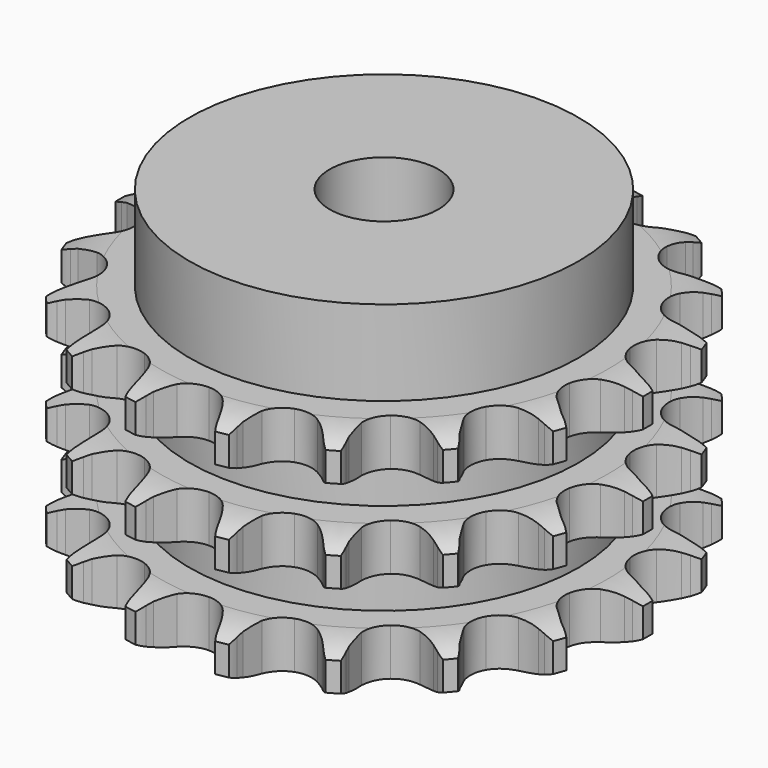
from build123d import *

# Parameters (mm, degrees)
PAD_DEPTH         = 25.6
SKETCH001_R       = 21.5
PAD001_DEPTH      = 35
SKETCH002_R       = 6
POCKET_DEPTH      = 0.001
POCKET_DEPTH_BACK = 35.001


with BuildPart() as part:
    # Sprocket → Pad (new body)
    with BuildSketch(Plane.XY):
        with BuildLine():
            ThreePointArc((-5.252647, 29.789243), (-4.498603, 28.950469), (-3.941242, 27.96992))
            Line((-3.941242, 27.96992), (-3.638207, 27.271135))
            ThreePointArc((-3.638207, 27.271135), (-3.145636, 26.311322), (-2.532859, 25.42342))
            ThreePointArc((-2.532859, 25.42342), (-1.407041, 24.519856), (0, 24.197169))
            ThreePointArc((0, 24.197169), (1.407041, 24.519856), (2.532859, 25.42342))
            ThreePointArc((2.532859, 25.42342), (3.145636, 26.311322), (3.638207, 27.271135))
            Line((3.638207, 27.271135), (3.941242, 27.96992))
            ThreePointArc((3.941242, 27.96992), (4.498603, 28.950469), (5.252647, 29.789243))
            ThreePointArc((5.252647, 29.789243), (5.67434, 28.743154), (5.86272, 27.631112))
            Line((5.86272, 27.631112), (5.908481, 26.870824))
            ThreePointArc((5.908481, 26.870824), (6.043072, 25.800426), (6.315213, 24.756488))
            ThreePointArc((6.315213, 24.756488), (7.064098, 23.522364), (8.275919, 22.737902))
            ThreePointArc((8.275919, 22.737902), (9.708471, 22.559891), (11.07543, 23.023911))
            Line((11.07543, 23.023911), (12.746073, 24.382144))
            ThreePointArc((12.746073, 24.382144), (13.001613, 24.664648), (13.269832, 24.935144))
            ThreePointArc((13.269832, 24.935144), (14.128947, 25.665929), (15.124395, 26.196221))
            ThreePointArc((15.124395, 26.196221), (15.162873, 25.068992), (14.959552, 23.959584))
            Line((14.959552, 23.959584), (14.742519, 23.229495))
            ThreePointArc((14.742519, 23.229495), (14.502895, 22.177618), (14.401577, 21.103559))
            ThreePointArc((14.401577, 21.103559), (14.683203, 19.687728), (15.553641, 18.536107))
            ThreePointArc((15.553641, 18.536107), (16.838916, 17.87887), (18.282141, 17.847379))
            Line((18.282141, 17.847379), (20.316575, 18.552307))
            ThreePointArc((20.316575, 18.552307), (20.653326, 18.730375), (20.997885, 18.892821))
            ThreePointArc((20.997885, 18.892821), (22.055132, 19.2857), (23.171918, 19.443547))
            ThreePointArc((23.171918, 19.443547), (22.82254, 18.371138), (22.252041, 17.398176))
            Line((22.252041, 17.398176), (21.798392, 16.786347))
            ThreePointArc((21.798392, 16.786347), (21.213455, 15.879861), (20.750898, 14.90523))
            ThreePointArc((20.750898, 14.90523), (20.531297, 13.478461), (20.955363, 12.098585))
            ThreePointArc((20.955363, 12.098585), (21.938339, 11.041394), (23.283756, 10.51819))
            Line((23.283756, 10.51819), (25.436599, 10.484788))
            ThreePointArc((25.436599, 10.484788), (25.813944, 10.536941), (26.193283, 10.571744))
            ThreePointArc((26.193283, 10.571744), (27.321143, 10.57933), (28.424565, 10.345696))
            ThreePointArc((28.424565, 10.345696), (27.729472, 9.457455), (26.860605, 8.738291))
            Line((26.860605, 8.738291), (26.225057, 8.318517))
            ThreePointArc((26.225057, 8.318517), (25.36536, 7.666759), (24.597354, 6.909109))
            ThreePointArc((24.597354, 6.909109), (23.903014, 5.643494), (23.82956, 4.201794))
            ThreePointArc((23.82956, 4.201794), (24.391674, 2.872163), (25.477007, 1.920352))
            Line((25.477007, 1.920352), (27.488593, 1.152649))
            ThreePointArc((27.488593, 1.152649), (27.861019, 1.072597), (28.229384, 0.97556))
            ThreePointArc((28.229384, 0.97556), (29.29182, 0.596938), (30.24879, 0))
            ThreePointArc((30.24879, 0), (29.29182, -0.596938), (28.229384, -0.97556))
            Line((28.229384, -0.97556), (27.488593, -1.152649))
            ThreePointArc((27.488593, -1.152649), (26.457828, -1.471067), (25.477007, -1.920352))
            ThreePointArc((25.477007, -1.920352), (24.391674, -2.872163), (23.82956, -4.201794))
            ThreePointArc((23.82956, -4.201794), (23.903014, -5.643494), (24.597354, -6.909109))
            Line((24.597354, -6.909109), (26.225057, -8.318517))
            ThreePointArc((26.225057, -8.318517), (26.547643, -8.521118), (26.860605, -8.738291))
            ThreePointArc((26.860605, -8.738291), (27.729472, -9.457455), (28.424565, -10.345696))
            ThreePointArc((28.424565, -10.345696), (27.321143, -10.57933), (26.193283, -10.571744))
            Line((26.193283, -10.571744), (25.436599, -10.484788))
            ThreePointArc((25.436599, -10.484788), (24.359091, -10.431461), (23.283756, -10.51819))
            ThreePointArc((23.283756, -10.51819), (21.938339, -11.041394), (20.955363, -12.098585))
            ThreePointArc((20.955363, -12.098585), (20.531297, -13.478461), (20.750898, -14.90523))
            Line((20.750898, -14.90523), (21.798392, -16.786347))
            ThreePointArc((21.798392, -16.786347), (22.032231, -17.08706), (22.252041, -17.398176))
            ThreePointArc((22.252041, -17.398176), (22.82254, -18.371138), (23.171918, -19.443547))
            ThreePointArc((23.171918, -19.443547), (22.055132, -19.2857), (20.997885, -18.892821))
            Line((20.997885, -18.892821), (20.316575, -18.552307))
            ThreePointArc((20.316575, -18.552307), (19.322288, -18.133666), (18.282141, -17.847379))
            ThreePointArc((18.282141, -17.847379), (16.838916, -17.87887), (15.553641, -18.536107))
            ThreePointArc((15.553641, -18.536107), (14.683203, -19.687728), (14.401577, -21.103559))
            Line((14.401577, -21.103559), (14.742519, -23.229495))
            ThreePointArc((14.742519, -23.229495), (14.859406, -23.592051), (14.959552, -23.959584))
            ThreePointArc((14.959552, -23.959584), (15.162873, -25.068992), (15.124395, -26.196221))
            ThreePointArc((15.124395, -26.196221), (14.128947, -25.665929), (13.269832, -24.935144))
            Line((13.269832, -24.935144), (12.746073, -24.382144))
            ThreePointArc((12.746073, -24.382144), (11.954933, -23.648684), (11.07543, -23.023911))
            ThreePointArc((11.07543, -23.023911), (9.708471, -22.559891), (8.275919, -22.737902))
            ThreePointArc((8.275919, -22.737902), (7.064098, -23.522364), (6.315213, -24.756488))
            Line((6.315213, -24.756488), (5.908481, -26.870824))
            ThreePointArc((5.908481, -26.870824), (5.894317, -27.251493), (5.86272, -27.631112))
            ThreePointArc((5.86272, -27.631112), (5.67434, -28.743154), (5.252647, -29.789243))
            ThreePointArc((5.252647, -29.789243), (4.498603, -28.950469), (3.941242, -27.96992))
            Line((3.941242, -27.96992), (3.638207, -27.271135))
            ThreePointArc((3.638207, -27.271135), (3.145636, -26.311322), (2.532859, -25.42342))
            ThreePointArc((2.532859, -25.42342), (1.407041, -24.519856), (0, -24.197169))
            ThreePointArc((0, -24.197169), (-1.407041, -24.519856), (-2.532859, -25.42342))
            Line((-2.532859, -25.42342), (-3.638207, -27.271135))
            ThreePointArc((-3.638207, -27.271135), (-3.781713, -27.624002), (-3.941242, -27.96992))
            ThreePointArc((-3.941242, -27.96992), (-4.498603, -28.950469), (-5.252647, -29.789243))
            ThreePointArc((-5.252647, -29.789243), (-5.67434, -28.743154), (-5.86272, -27.631112))
            Line((-5.86272, -27.631112), (-5.908481, -26.870824))
            ThreePointArc((-5.908481, -26.870824), (-6.043072, -25.800426), (-6.315213, -24.756488))
            ThreePointArc((-6.315213, -24.756488), (-7.064098, -23.522364), (-8.275919, -22.737902))
            ThreePointArc((-8.275919, -22.737902), (-9.708471, -22.559891), (-11.07543, -23.023911))
            Line((-11.07543, -23.023911), (-12.746073, -24.382144))
            ThreePointArc((-12.746073, -24.382144), (-13.001613, -24.664648), (-13.269832, -24.935144))
            ThreePointArc((-13.269832, -24.935144), (-14.128947, -25.665929), (-15.124395, -26.196221))
            ThreePointArc((-15.124395, -26.196221), (-15.162873, -25.068992), (-14.959552, -23.959584))
            Line((-14.959552, -23.959584), (-14.742519, -23.229495))
            ThreePointArc((-14.742519, -23.229495), (-14.502895, -22.177618), (-14.401577, -21.103559))
            ThreePointArc((-14.401577, -21.103559), (-14.683203, -19.687728), (-15.553641, -18.536107))
            ThreePointArc((-15.553641, -18.536107), (-16.838916, -17.87887), (-18.282141, -17.847379))
            Line((-18.282141, -17.847379), (-20.316575, -18.552307))
            ThreePointArc((-20.316575, -18.552307), (-20.653326, -18.730375), (-20.997885, -18.892821))
            ThreePointArc((-20.997885, -18.892821), (-22.055132, -19.2857), (-23.171918, -19.443547))
            ThreePointArc((-23.171918, -19.443547), (-22.82254, -18.371138), (-22.252041, -17.398176))
            Line((-22.252041, -17.398176), (-21.798392, -16.786347))
            ThreePointArc((-21.798392, -16.786347), (-21.213455, -15.879861), (-20.750898, -14.90523))
            ThreePointArc((-20.750898, -14.90523), (-20.531297, -13.478461), (-20.955363, -12.098585))
            ThreePointArc((-20.955363, -12.098585), (-21.938339, -11.041394), (-23.283756, -10.51819))
            Line((-23.283756, -10.51819), (-25.436599, -10.484788))
            ThreePointArc((-25.436599, -10.484788), (-25.813944, -10.536941), (-26.193283, -10.571744))
            ThreePointArc((-26.193283, -10.571744), (-27.321143, -10.57933), (-28.424565, -10.345696))
            ThreePointArc((-28.424565, -10.345696), (-27.729472, -9.457455), (-26.860605, -8.738291))
            Line((-26.860605, -8.738291), (-26.225057, -8.318517))
            ThreePointArc((-26.225057, -8.318517), (-25.36536, -7.666759), (-24.597354, -6.909109))
            ThreePointArc((-24.597354, -6.909109), (-23.903014, -5.643494), (-23.82956, -4.201794))
            ThreePointArc((-23.82956, -4.201794), (-24.391674, -2.872163), (-25.477007, -1.920352))
            Line((-25.477007, -1.920352), (-27.488593, -1.152649))
            ThreePointArc((-27.488593, -1.152649), (-27.861019, -1.072597), (-28.229384, -0.97556))
            ThreePointArc((-28.229384, -0.97556), (-29.29182, -0.596938), (-30.24879, 0))
            ThreePointArc((-30.24879, 0), (-29.29182, 0.596938), (-28.229384, 0.97556))
            Line((-28.229384, 0.97556), (-27.488593, 1.152649))
            ThreePointArc((-27.488593, 1.152649), (-26.457828, 1.471067), (-25.477007, 1.920352))
            ThreePointArc((-25.477007, 1.920352), (-24.391674, 2.872163), (-23.82956, 4.201794))
            ThreePointArc((-23.82956, 4.201794), (-23.903014, 5.643494), (-24.597354, 6.909109))
            Line((-24.597354, 6.909109), (-26.225057, 8.318517))
            ThreePointArc((-26.225057, 8.318517), (-26.547643, 8.521118), (-26.860605, 8.738291))
            ThreePointArc((-26.860605, 8.738291), (-27.729472, 9.457455), (-28.424565, 10.345696))
            ThreePointArc((-28.424565, 10.345696), (-27.321143, 10.57933), (-26.193283, 10.571744))
            Line((-26.193283, 10.571744), (-25.436599, 10.484788))
            ThreePointArc((-25.436599, 10.484788), (-24.359091, 10.431461), (-23.283756, 10.51819))
            ThreePointArc((-23.283756, 10.51819), (-21.938339, 11.041394), (-20.955363, 12.098585))
            ThreePointArc((-20.955363, 12.098585), (-20.531297, 13.478461), (-20.750898, 14.90523))
            Line((-20.750898, 14.90523), (-21.798392, 16.786347))
            ThreePointArc((-21.798392, 16.786347), (-22.032231, 17.08706), (-22.252041, 17.398176))
            ThreePointArc((-22.252041, 17.398176), (-22.82254, 18.371138), (-23.171918, 19.443547))
            ThreePointArc((-23.171918, 19.443547), (-22.055132, 19.2857), (-20.997885, 18.892821))
            Line((-20.997885, 18.892821), (-20.316575, 18.552307))
            ThreePointArc((-20.316575, 18.552307), (-19.322288, 18.133666), (-18.282141, 17.847379))
            ThreePointArc((-18.282141, 17.847379), (-16.838916, 17.87887), (-15.553641, 18.536107))
            ThreePointArc((-15.553641, 18.536107), (-14.683203, 19.687728), (-14.401577, 21.103559))
            Line((-14.401577, 21.103559), (-14.742519, 23.229495))
            ThreePointArc((-14.742519, 23.229495), (-14.859406, 23.592051), (-14.959552, 23.959584))
            ThreePointArc((-14.959552, 23.959584), (-15.162873, 25.068992), (-15.124395, 26.196221))
            ThreePointArc((-15.124395, 26.196221), (-14.128947, 25.665929), (-13.269832, 24.935144))
            Line((-13.269832, 24.935144), (-12.746073, 24.382144))
            ThreePointArc((-12.746073, 24.382144), (-11.954933, 23.648684), (-11.07543, 23.023911))
            ThreePointArc((-11.07543, 23.023911), (-9.708471, 22.559891), (-8.275919, 22.737902))
            ThreePointArc((-8.275919, 22.737902), (-7.064098, 23.522364), (-6.315213, 24.756488))
            Line((-6.315213, 24.756488), (-5.908481, 26.870824))
            ThreePointArc((-5.908481, 26.870824), (-5.894317, 27.251493), (-5.86272, 27.631112))
            ThreePointArc((-5.86272, 27.631112), (-5.67434, 28.743154), (-5.252647, 29.789243))
        make_face()
    extrude(amount=PAD_DEPTH)

    # Sketch → Groove (revolve, cut)
    with BuildSketch(Plane.XZ):
        with BuildLine():
            ThreePointArc((24.791101, 0), (27.027169, 0.253206), (29.15, 1))
            Line((29.15, 1), (29.15, 4.2))
            ThreePointArc((29.15, 4.2), (27.027169, 4.946794), (24.791101, 5.2))
            Line((21.5, 5.2), (24.791101, 5.2))
            Line((21.5, 5.2), (21.5, 10.2))
            Line((21.5, 10.2), (24.791101, 10.2))
            ThreePointArc((24.791101, 10.2), (27.027169, 10.453206), (29.15, 11.2))
            Line((29.15, 14.4), (29.15, 11.2))
            ThreePointArc((29.15, 14.4), (27.027169, 15.146794), (24.791101, 15.4))
            Line((21.5, 15.4), (24.791101, 15.4))
            Line((21.5, 20.4), (21.5, 15.4))
            Line((24.791101, 20.4), (21.5, 20.4))
            ThreePointArc((24.791101, 20.4), (27.027169, 20.653206), (29.15, 21.4))
            Line((29.15, 21.4), (29.15, 24.6))
            ThreePointArc((29.15, 24.6), (27.027169, 25.346794), (24.791101, 25.6))
            Line((24.791101, 25.6), (39.15, 25.6))
            Line((39.15, 25.6), (39.15, 0))
            Line((24.791101, 0), (39.15, 0))
        make_face()
    revolve(axis=Axis((0, 0, 0), (0, 0, 1)), mode=Mode.SUBTRACT)

    # Sketch001 → Pad001 (join)
    with BuildSketch(Plane.XY):
        Circle(SKETCH001_R)
    extrude(amount=PAD001_DEPTH)

    # Sketch002 → Pocket (cut, two sides)
    with BuildSketch(Plane.XY) as pocket_sk:
        Circle(SKETCH002_R)
    extrude(amount=-POCKET_DEPTH, mode=Mode.SUBTRACT)
    extrude(pocket_sk.sketch, amount=POCKET_DEPTH_BACK, mode=Mode.SUBTRACT)


solid = part.part
